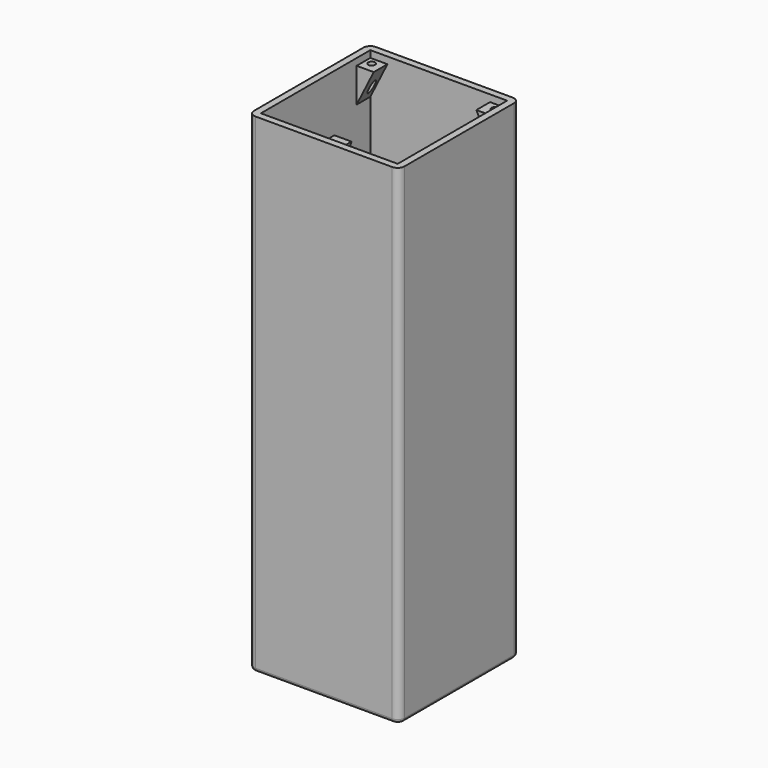
from build123d import *

# Parameters (mm, degrees)
EXTRUDE001_DEPTH = 3
FILLET_R         = 1
SKETCH_W         = 40
SKETCH_H         = 40
EXTRUDE_DEPTH    = 140
SKETCH008_R      = 1
EXTRUDE007_DEPTH = 10
EXTRUDE006_DEPTH = 5
EXTRUDE005_DEPTH = 5


with BuildPart() as fillet_body:
    # Sketch001 → Extrude001 (new body)
    with BuildSketch(Plane.XY.offset(-140)):
        with BuildLine():
            Line((0, -2), (40, -2))
            ThreePointArc((40, -2), (41.414214, -1.414214), (42, 0))
            Line((42, 0), (42, 40))
            ThreePointArc((42, 40), (41.414214, 41.414214), (40, 42))
            Line((40, 42), (0, 42))
            ThreePointArc((0, 42), (-1.414214, 41.414214), (-2, 40))
            Line((-2, 40), (-2, 0))
            ThreePointArc((-2, 0), (-1.414214, -1.414214), (0, -2))
        make_face()
    extrude(amount=-EXTRUDE001_DEPTH)

    # Fillet
    fillet_edges = [fillet_body.edges().sort_by_distance(p)[0] for p in [
        (20, 42, -143),
        (-1.414214, 41.414214, -143),
        (-2, 20, -143),
    ]]
    fillet(fillet_edges, radius=FILLET_R)


with BuildPart() as fusion:
    # Sketch → Extrude (new body)
    with BuildSketch(Plane.XY):
        with BuildLine():
            Line((0, -2), (40, -2))
            ThreePointArc((40, -2), (41.414214, -1.414214), (42, 0))
            Line((42, 0), (42, 40))
            ThreePointArc((42, 40), (41.414214, 41.414214), (40, 42))
            Line((40, 42), (0, 42))
            ThreePointArc((0, 42), (-1.414214, 41.414214), (-2, 40))
            Line((-2, 40), (-2, 0))
            ThreePointArc((-2, 0), (-1.414214, -1.414214), (0, -2))
        make_face()
        with Locations((20, 20)):
            Rectangle(SKETCH_W, SKETCH_H, mode=Mode.SUBTRACT)
    extrude(amount=-EXTRUDE_DEPTH)

    # Fusion: union Fillet body
    add(fillet_body.part)


with BuildPart() as extrude007:
    # Sketch008 → Extrude007 (new body)
    with BuildSketch(Plane.XY):
        with Locations((2, 38)):
            Circle(SKETCH008_R)
        with Locations((38, 38)):
            Circle(SKETCH008_R)
        with Locations((20, 2)):
            Circle(SKETCH008_R)
    extrude(amount=-EXTRUDE007_DEPTH)


with BuildPart() as extrude006:
    # Sketch010 → Extrude006 (new body)
    with BuildSketch(Plane.YZ.offset(17.5)):
        Polygon((0, 0), (5, 0), (0, -10), align=None)
    extrude(amount=EXTRUDE006_DEPTH)


with BuildPart() as fusion004:
    # Sketch009 → Extrude005 (new body)
    with BuildSketch(Plane.XZ.offset(-40)):
        Polygon((0, 0), (5, 0), (0, -10), align=None)
        Polygon((40, 0), (35, 0), (40, -10), align=None)
    extrude(amount=EXTRUDE005_DEPTH)

    # Fusion003: union Extrude006
    add(extrude006.part)

    # Cut: cut Extrude007
    add(extrude007.part, mode=Mode.SUBTRACT)


with BuildPart() as fusion004_1:
    # Cut placement: moved
    add(fusion004.part.moved(Location((0, 0, -2))))

    # Fusion004: union Fusion
    add(fusion.part)


solid = fusion004_1.part
